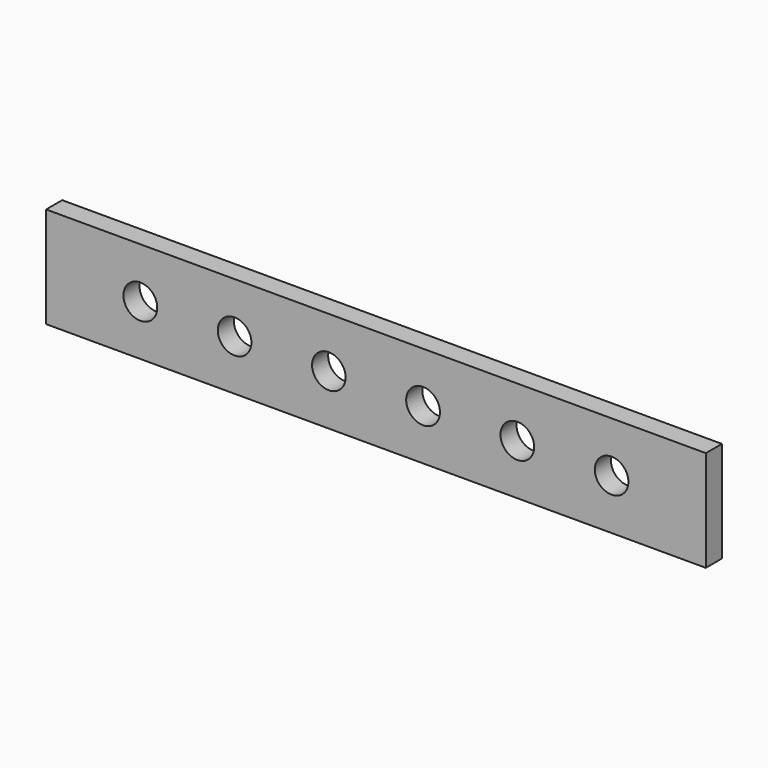
from build123d import *

# Parameters (mm, degrees)
F0_W     = 62.23
F0_H     = 9.525
F0_R     = 1.593097
F0_R_2   = 1.5875
F0_R_3   = 1.58325
F1_DEPTH = 1.89738


with BuildPart() as f1:
    # F0 (on Front) → F1 (new body)
    with BuildSketch(Plane.XZ):
        with Locations((-9.849542, 15.549641)):
            Rectangle(F0_W, F0_H)
        with Locations((-32.074542, 15.549641)):
            Circle(F0_R, mode=Mode.SUBTRACT)
        with Locations((-23.184542, 15.549641)):
            Circle(F0_R_2, mode=Mode.SUBTRACT)
        with Locations((-14.294542, 15.549641)):
            Circle(F0_R_3, mode=Mode.SUBTRACT)
        with Locations((-5.404542, 15.549641)):
            Circle(F0_R, mode=Mode.SUBTRACT)
        with Locations((3.485458, 15.549641)):
            Circle(F0_R_2, mode=Mode.SUBTRACT)
        with Locations((12.375458, 15.552476)):
            Circle(F0_R_3, mode=Mode.SUBTRACT)
    extrude(amount=F1_DEPTH)


solid = f1.part
